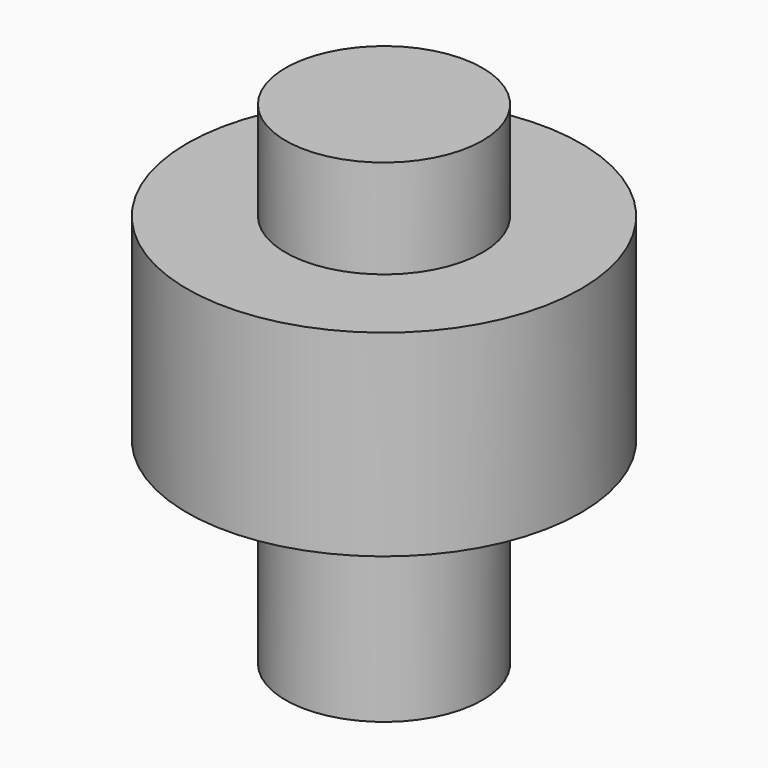
from build123d import *

# Parameters (mm, degrees)
F0_R     = 10
F1_DEPTH = 10
F2_R     = 5
F3_DEPTH = 15
F4_DEPTH = 10


with BuildPart() as f1:
    # F0 (on Top) → F1 (new body)
    with BuildSketch(Plane.XY):
        Circle(F0_R)
    extrude(amount=F1_DEPTH)

    # F2 (on Top) → F3 (join)
    with BuildSketch(Plane.XY):
        Circle(F2_R)
    extrude(amount=F3_DEPTH)

    # F2 (on Top) → F4 (join)
    with BuildSketch(Plane.XY):
        Circle(F2_R)
    extrude(amount=-F4_DEPTH)


solid = f1.part
